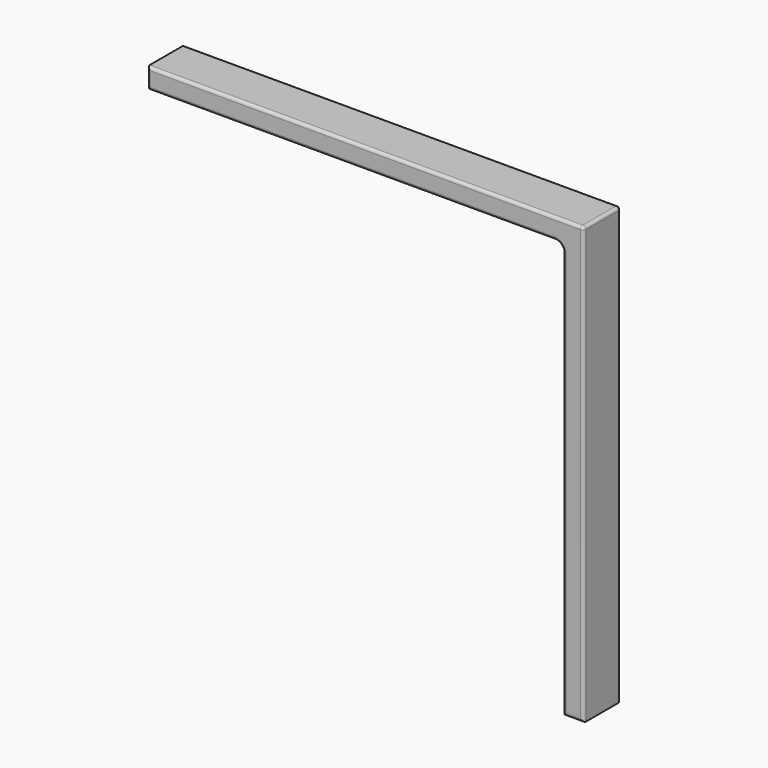
from build123d import *

# Parameters (mm, degrees)
F1_DEPTH  = 16
F3_DEPTH  = 148
F5_DEPTH  = 148
F6_R      = 3
F7_R      = 3
F8_R      = 1
F9_R      = 1
F11_DEPTH = 10
F13_DEPTH = 10


with BuildPart() as f1:
    # F0 (on Front) → F1 (new body)
    with BuildSketch(Plane.XZ):
        Polygon((130.5555550784, 7), (-19.4444449216, 7), (-19.4444449216, 0), (123.5555550784, 0), (123.5555550784, -143), (130.5555550784, -143), align=None)
    extrude(amount=F1_DEPTH)

    # F2 (on face) → F3 (cut)
    with BuildSketch(Plane(origin=(0, 0, -143), x_dir=(1, 0, 0), z_dir=(0, 0, -1))):
        Polygon((125.5555550784, 10), (123.5555550784, 10), (123.5555550784, 6), (125.5555550784, 6), (125.5555550784, 2), (128.5555550784, 2), (128.5555550784, 14), (125.5555550784, 14), align=None)
    extrude(amount=-F3_DEPTH, mode=Mode.SUBTRACT)

    # F4 (on face) → F5 (cut)
    with BuildSketch(Plane(origin=(-19.4444449216, 0, 0), x_dir=(0, -1, 0), z_dir=(-1, 0, 0))):
        Polygon((6, 2), (6, 0), (10, 0), (10, 2), (14, 2), (14, 5), (2, 5), (2, 2), align=None)
    extrude(amount=-F5_DEPTH, mode=Mode.SUBTRACT)

    # F6
    f6_edges = [f1.edges().sort_by_distance(p)[0] for p in [
        (128.555555, -8, 5),
        (123.555555, -3, 0),
        (123.555555, -13, 0),
    ]]
    fillet(f6_edges, radius=F6_R)

    # F7
    f7_edges = [f1.edges().sort_by_distance(p)[0] for p in [
        (125.555555, -4, 2),
        (125.555555, -12, 2),
    ]]
    fillet(f7_edges, radius=F7_R)

    # F8
    f8_edges = [f1.edges().sort_by_distance(p)[0] for p in [
        (130.555555, -8, 7),
        (55.555555, 0, 7),
        (50.555555, 0, 0),
        (122.676875, 0, -0.87868),
        (-19.444445, 0, 3.5),
        (123.555555, 0, -73),
        (127.055555, 0, -143),
        (130.555555, 0, -68),
    ]]
    fillet(f8_edges, radius=F8_R)

    # F9
    f9_edges = [f1.edges().sort_by_distance(p)[0] for p in [
        (55.055555, -16, 7),
        (130.262662, -16, 6.707107),
        (-19.444445, -16, 3.5),
        (130.555555, -16, -68.5),
        (50.555555, -16, 0),
        (127.055555, -16, -143),
        (122.676875, -16, -0.87868),
        (123.555555, -16, -73),
    ]]
    fillet(f9_edges, radius=F9_R)

    # F10 (on face) → F11 (cut)
    with BuildSketch(Plane(origin=(-19.4444449216, 0, 0), x_dir=(0, -1, 0), z_dir=(-1, 0, 0))):
        Polygon((10, 1), (15, 1), (15, 6), (1, 6), (1, 1), (6, 1), (6, 2), (2, 2), (2, 5), (14, 5), (14, 2), (10, 2), align=None)
    extrude(amount=-F11_DEPTH, mode=Mode.SUBTRACT)

    # F12 (on face) → F13 (cut)
    with BuildSketch(Plane(origin=(0, 0, -143), x_dir=(1, 0, 0), z_dir=(0, 0, -1))):
        Polygon((129.5555550784, 15), (124.5555550784, 15), (124.5555550784, 10), (125.5555550784, 10), (125.5555550784, 14), (128.5555550784, 14), (128.5555550784, 2), (125.5555550784, 2), (125.5555550784, 6), (124.5555550784, 6), (124.5555550784, 1), (129.5555550784, 1), align=None)
    extrude(amount=-F13_DEPTH, mode=Mode.SUBTRACT)


solid = f1.part
